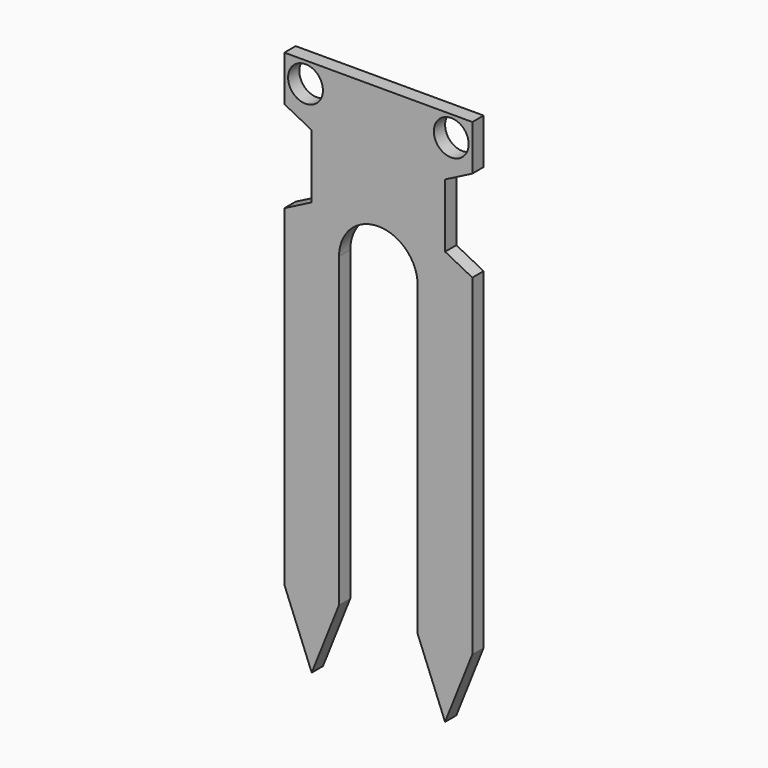
from build123d import *

# Parameters (mm, degrees)
F0_R     = 1.855
F1_DEPTH = 1.5


with BuildPart() as f1:
    # F0 (on Front) → F1 (new body)
    with BuildSketch(Plane.XZ):
        with BuildLine():
            Line((10.015, 6.329161), (0, 6.329161))
            Line((0, 6.329161), (-10.015, 6.329161))
            Line((-10.015, 6.329161), (-10.015, 1.489161))
            Line((-10.015, 1.489161), (-7.115, 0))
            Line((-7.115, 0), (-7.115, -6.78))
            Line((-7.115, -6.78), (-10.015, -8.269161))
            Line((-10.015, -8.269161), (-10.015, -43.609161))
            Line((-10.015, -43.609161), (-7.105, -50.900839))
            Line((-7.105, -50.900839), (-4.195, -43.609161))
            Line((-4.195, -43.609161), (-4.195, -10.909161))
            ThreePointArc((-4.195, -10.909161), (0, -6.714161), (4.195, -10.909161))
            Line((4.195, -10.909161), (4.195, -43.609161))
            Line((4.195, -43.609161), (7.105, -50.900839))
            Line((7.105, -50.900839), (10.015, -43.609161))
            Line((10.015, -43.609161), (10.015, -8.269161))
            Line((10.015, -8.269161), (7.115, -6.78))
            Line((7.115, -6.78), (7.115, 0))
            Line((7.115, 0), (10.015, 1.489161))
            Line((10.015, 1.489161), (10.015, 6.329161))
        make_face()
        with Locations((-7.766948, 4.119043)):
            Circle(F0_R, mode=Mode.SUBTRACT)
        with Locations((7.766948, 4.119043)):
            Circle(F0_R, mode=Mode.SUBTRACT)
    extrude(amount=F1_DEPTH)


solid = f1.part
